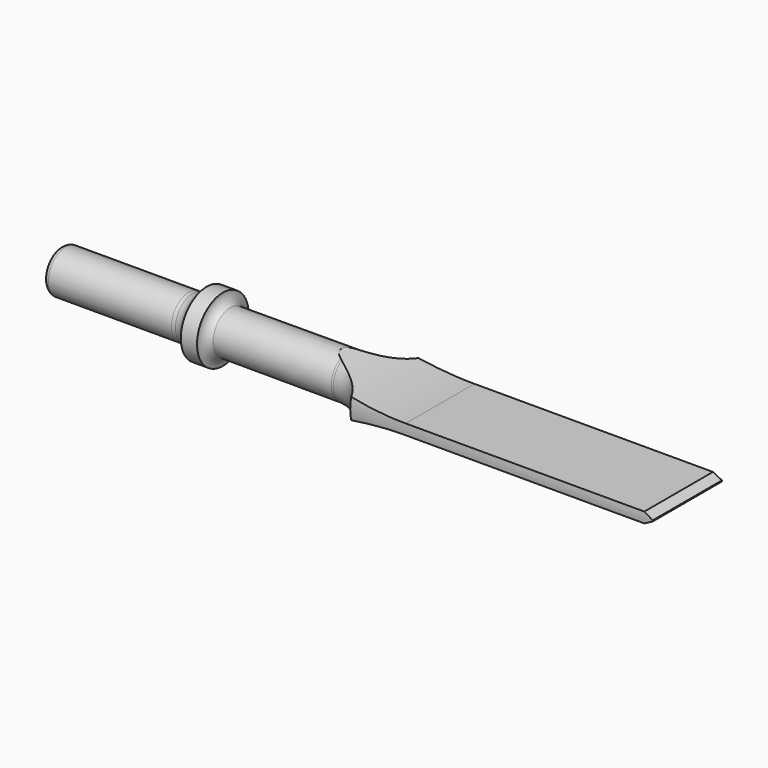
from build123d import *

# Parameters (mm, degrees)
F3_DEPTH = 63.5
F4_DEPTH = 25.4


with BuildPart() as f1:
    # F0 (on Top) → F1 (revolve)
    with BuildSketch(Plane.XY):
        with BuildLine():
            Line((-86.542711, 10.830558), (-86.542711, 6.004558))
            Line((-86.542711, 6.004558), (97.607289, 6.004558))
            Line((97.607289, 6.004558), (97.607289, 18.704558))
            Line((97.607289, 18.704558), (8.707289, 18.704558))
            ThreePointArc((8.707289, 18.704558), (4.54759, 14.187595), (-1.329683, 12.408912))
            ThreePointArc((-1.329683, 12.408912), (-1.624219, 12.40452), (-1.918771, 12.407566))
            Line((-1.918771, 12.407566), (-36.700717, 12.328112))
            ThreePointArc((-36.700717, 12.328112), (-38.280061, 13.575768), (-38.876261, 15.498142))
            Line((-38.876261, 15.498142), (-43.626061, 15.498142))
            ThreePointArc((-43.626061, 15.498142), (-45.254669, 13.356142), (-47.75214, 12.354558))
            ThreePointArc((-47.75214, 12.354558), (-48.315292, 12.323061), (-48.878444, 12.354558))
            Line((-48.878444, 12.354558), (-85.018711, 12.354558))
            ThreePointArc((-85.018711, 12.354558), (-86.096341, 11.908189), (-86.542711, 10.830558))
        make_face()
    revolve(axis=Axis((5.532289, 6.004558, 0), (1, 0, 0)))

    # F2 (on Front) → F3 (cut)
    with BuildSketch(Plane.XZ):
        with BuildLine():
            Line((-3.93209, 27.841151), (-3.93209, 6.35))
            ThreePointArc((-3.93209, 6.35), (10.307284, 2.745661), (24.945787, 1.535172))
            Line((24.945787, 1.535172), (95.049836, 1.535172))
            Line((95.049836, 1.535172), (97.884275, 0))
            Line((97.884275, 0), (100.466569, 1.535172))
            Line((100.466569, 1.535172), (113.435097, 10.608604))
            Line((113.435097, 10.608604), (113.435097, 27.841151))
            Line((113.435097, 27.841151), (97.66791, 27.841151))
            Line((97.66791, 27.841151), (-3.93209, 27.841151))
        make_face()
        with BuildLine():
            Line((100.466569, -1.535172), (97.884275, 0))
            Line((97.884275, 0), (95.049836, -1.535172))
            Line((95.049836, -1.535172), (24.945787, -1.535172))
            ThreePointArc((24.945787, -1.535172), (10.307284, -2.745661), (-3.93209, -6.35))
            Line((-3.93209, -6.35), (-3.93209, -27.841151))
            Line((-3.93209, -27.841151), (113.435097, -27.841151))
            Line((113.435097, -27.841151), (113.435097, -10.608604))
            Line((113.435097, -10.608604), (100.466569, -1.535172))
        make_face()
    extrude(amount=-F3_DEPTH, mode=Mode.SUBTRACT)

    # F2 (on Front) → F4 (cut)
    with BuildSketch(Plane.XZ):
        with BuildLine():
            Line((-3.93209, 27.841151), (-3.93209, 6.35))
            ThreePointArc((-3.93209, 6.35), (10.307284, 2.745661), (24.945787, 1.535172))
            Line((24.945787, 1.535172), (95.049836, 1.535172))
            Line((95.049836, 1.535172), (97.884275, 0))
            Line((97.884275, 0), (100.466569, 1.535172))
            Line((100.466569, 1.535172), (113.435097, 10.608604))
            Line((113.435097, 10.608604), (113.435097, 27.841151))
            Line((113.435097, 27.841151), (97.66791, 27.841151))
            Line((97.66791, 27.841151), (-3.93209, 27.841151))
        make_face()
        with BuildLine():
            Line((100.466569, -1.535172), (97.884275, 0))
            Line((97.884275, 0), (95.049836, -1.535172))
            Line((95.049836, -1.535172), (24.945787, -1.535172))
            ThreePointArc((24.945787, -1.535172), (10.307284, -2.745661), (-3.93209, -6.35))
            Line((-3.93209, -6.35), (-3.93209, -27.841151))
            Line((-3.93209, -27.841151), (113.435097, -27.841151))
            Line((113.435097, -27.841151), (113.435097, -10.608604))
            Line((113.435097, -10.608604), (100.466569, -1.535172))
        make_face()
    extrude(amount=F4_DEPTH, mode=Mode.SUBTRACT)


solid = f1.part
